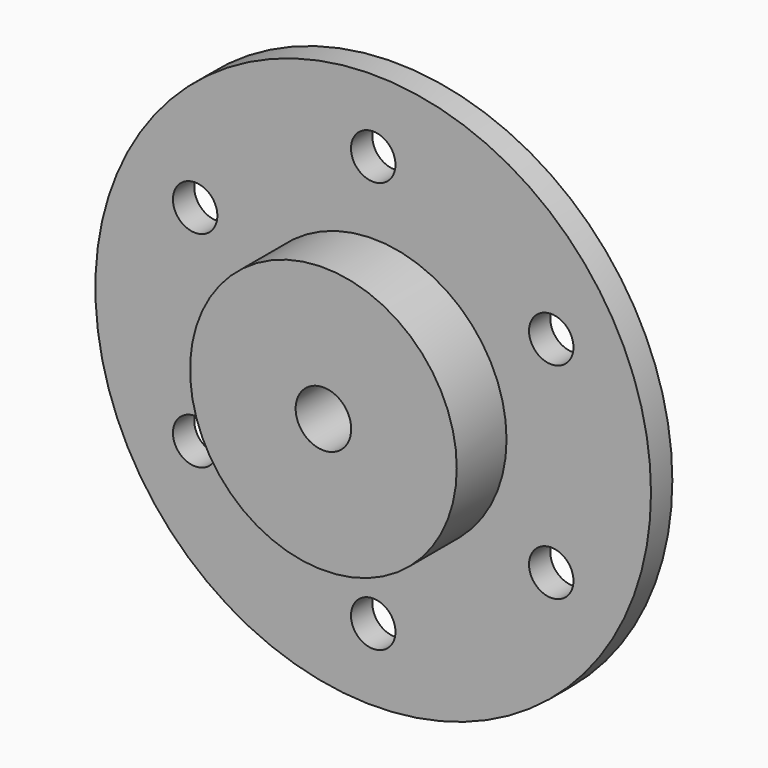
from build123d import *

# Parameters (mm, degrees)
F0_R     = 15.875
F0_R_2   = 1.27
F0_R_3   = 7.62
F1_DEPTH = 1.524
F0_R_4   = 1.5875
F2_DEPTH = 5.08


with BuildPart() as f1:
    # F0 (on Front) → F1 (new body)
    with BuildSketch(Plane.XZ):
        Circle(F0_R)
        with Locations((-10.173633, -5.87375)):
            Circle(F0_R_2, mode=Mode.SUBTRACT)
        with Locations((0, -11.7475)):
            Circle(F0_R_2, mode=Mode.SUBTRACT)
        with Locations((10.173633, -5.87375)):
            Circle(F0_R_2, mode=Mode.SUBTRACT)
        with Locations((-10.173633, 5.87375)):
            Circle(F0_R_2, mode=Mode.SUBTRACT)
        Circle(F0_R_3, mode=Mode.SUBTRACT)
        with Locations((10.173633, 5.87375)):
            Circle(F0_R_2, mode=Mode.SUBTRACT)
        with Locations((0, 11.7475)):
            Circle(F0_R_2, mode=Mode.SUBTRACT)
    extrude(amount=F1_DEPTH)

    # F0 (on Front) → F2 (join)
    with BuildSketch(Plane.XZ):
        Circle(F0_R_3)
        Circle(F0_R_4, mode=Mode.SUBTRACT)
    extrude(amount=F2_DEPTH)


solid = f1.part
